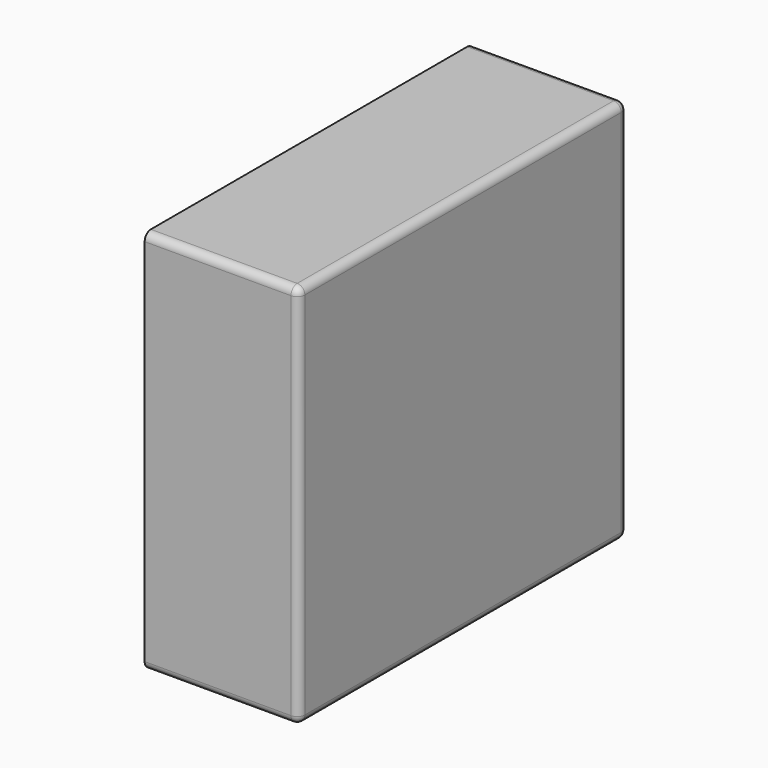
from build123d import *

# Parameters (mm, degrees)
BOX019_W     = 0.6
BOX019_H     = 1.6
BOX019_DEPTH = 1.5
FILLET025_R  = 0.03


with BuildPart() as fillet025:
    # Box019 → Box019 (new body)
    with BuildSketch(Plane.XY):
        with Locations((0.3, 0.8)):
            Rectangle(BOX019_W, BOX019_H)
    extrude(amount=BOX019_DEPTH)

    # Fillet025
    fillet025_edges = [fillet025.edges().sort_by_distance(p)[0] for p in [
        (0, 0, 0.75),
        (0, 0.8, 1.5),
        (0, 1.6, 0.75),
        (0, 0.8, 0),
        (0.3, 0, 0),
        (0.3, 0, 1.5),
        (0.3, 1.6, 0),
        (0.3, 1.6, 1.5),
    ]]
    fillet(fillet025_edges, radius=FILLET025_R)


with BuildPart() as part_mirroring018:
    # Part__Mirroring018: instance of Fillet025
    add(fillet025.part.mirror(Plane(origin=(1.6, 0, 0), x_dir=(0, -1, 0), z_dir=(1, 0, 0))))


solid = part_mirroring018.part
